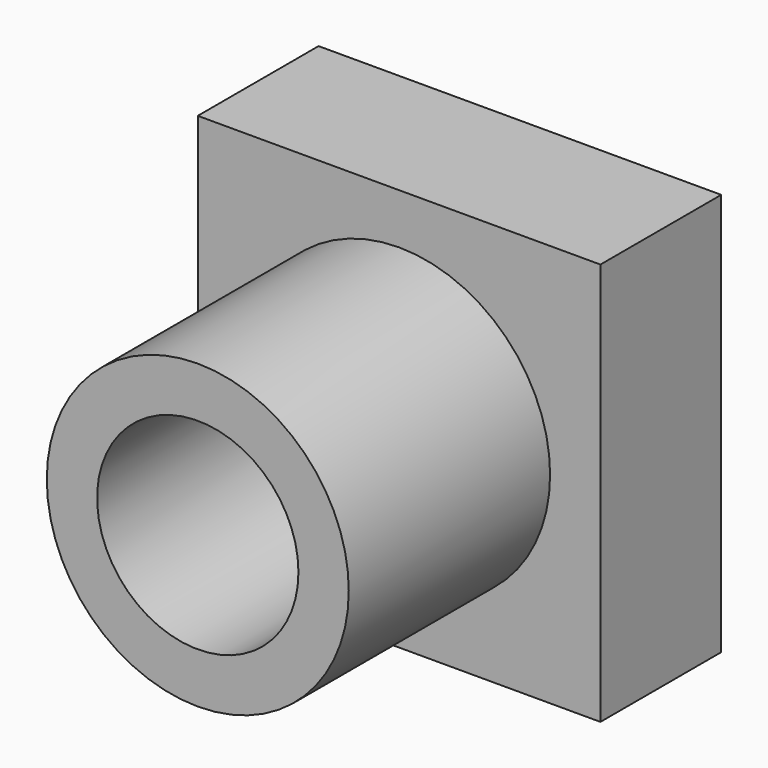
from build123d import *

# Parameters (mm, degrees)
F0_W     = 8
F0_H     = 8
F1_DEPTH = 3
F2_R     = 3
F3_DEPTH = 5
F4_R     = 2
F5_DEPTH = 5


with BuildPart() as f1:
    # F0 (on Front) → F1 (new body)
    with BuildSketch(Plane.XZ):
        Rectangle(F0_W, F0_H)
    extrude(amount=F1_DEPTH)


with BuildPart() as f3:
    # F2 (on face) → F3 (new body)
    with BuildSketch(Plane.XZ.offset(3)):
        Circle(F2_R)
    extrude(amount=F3_DEPTH)

    # F4 (on face) → F5 (cut)
    with BuildSketch(Plane.XZ.offset(8)):
        Circle(F4_R)
    extrude(amount=-F5_DEPTH, mode=Mode.SUBTRACT)


solid = Compound([f1.part, f3.part])
